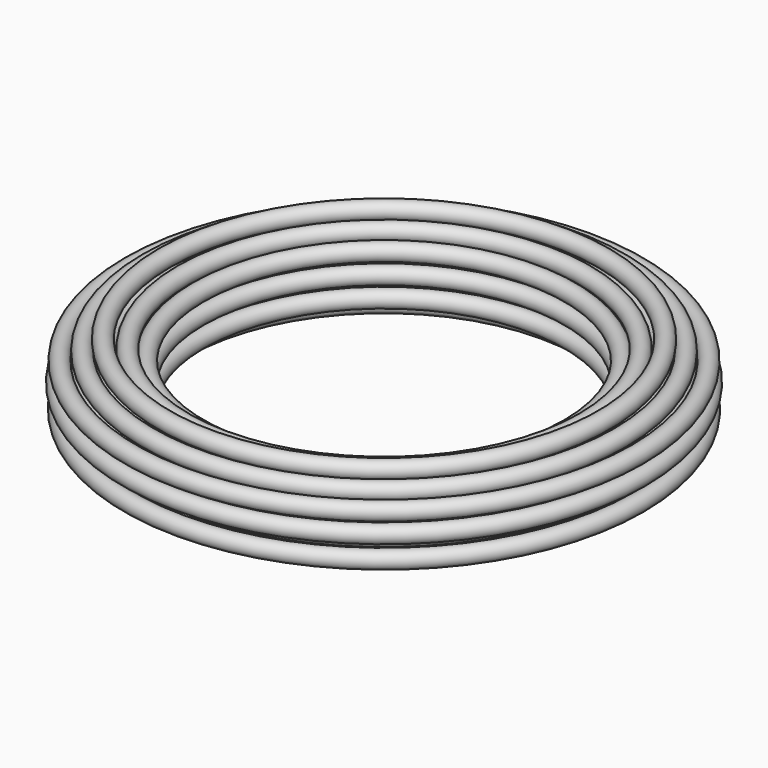
from build123d import *

# Parameters (mm, degrees)
F0_R = 1.232587


with BuildPart() as f1:
    # F0 (on Front) → F1 (revolve)
    with BuildSketch(Plane.XZ):
        with Locations((-31.390976, 36.885839)):
            Circle(F0_R)
        with Locations((-28.854333, 35.194743)):
            Circle(F0_R)
        with Locations((-26.740463, 39.845258)):
            Circle(F0_R)
        with Locations((-31.390976, 42.593289)):
            Circle(F0_R)
        with Locations((-26.740463, 36.885839)):
            Circle(F0_R)
        with Locations((-33.927623, 41.113582)):
            Circle(F0_R)
        with Locations((-29.065721, 38.154162)):
            Circle(F0_R)
        with Locations((-36.540885, 36.749259)):
            Circle(F0_R)
        with Locations((-31.602364, 45.552708)):
            Circle(F0_R)
        with Locations((-26.740463, 42.804677)):
            Circle(F0_R)
        with Locations((-33.927623, 35.406131)):
            Circle(F0_R)
        with Locations((-33.927623, 44.073001)):
            Circle(F0_R)
        with Locations((-36.464266, 42.804677)):
            Circle(F0_R)
        with Locations((-36.748942, 40.078152)):
            Circle(F0_R)
        with Locations((-31.390976, 34.137808)):
            Circle(F0_R)
        with Locations((-31.390976, 39.633874)):
            Circle(F0_R)
        with Locations((-28.854333, 44.284385)):
            Circle(F0_R)
        with Locations((-34.139011, 38.36555)):
            Circle(F0_R)
        with Locations((-29.065721, 41.113582)):
            Circle(F0_R)
    revolve(axis=Axis((0, 0, 37.06134), (0, 0, -1)))


solid = f1.part
